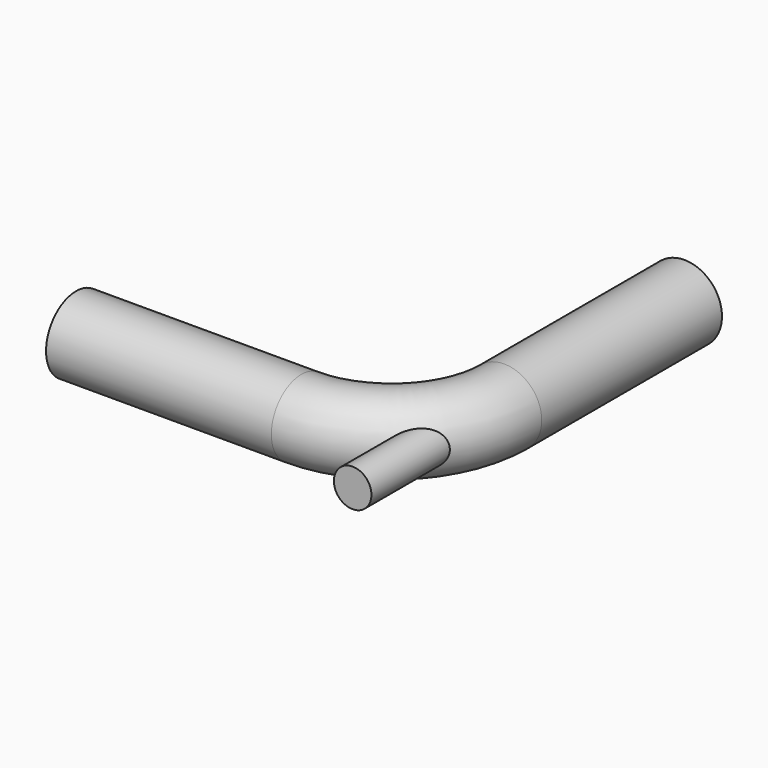
from build123d import *

# Parameters (mm, degrees)
F1_R     = 12.7
F5_R     = 6.35
F6_DEPTH = 33.1465593881


with BuildPart() as f2:
    # F2: sweep along a path in F0
    with BuildLine(Plane.XY) as f2_path:
        Line((0, 0), (76.2, 0))
        ThreePointArc((76.2, 0), (103.1407683632, 11.1592316368), (114.3, 38.1))
        Line((114.3, 38.1), (114.3, 114.3))
    # F1 (on Right) → F2 (sweep)
    with BuildSketch(Plane.YZ):
        Circle(F1_R)
    sweep(path=f2_path.line)

    # F5 (on line) → F6 (join, through all)
    with BuildSketch(Plane(origin=(0, -23.2210244843, 0), x_dir=(-1, 0, 0), z_dir=(0, 1, 0))):
        with Locations((-112.1210244843, 0)):
            Circle(F5_R)
    extrude(amount=F6_DEPTH)


solid = f2.part
